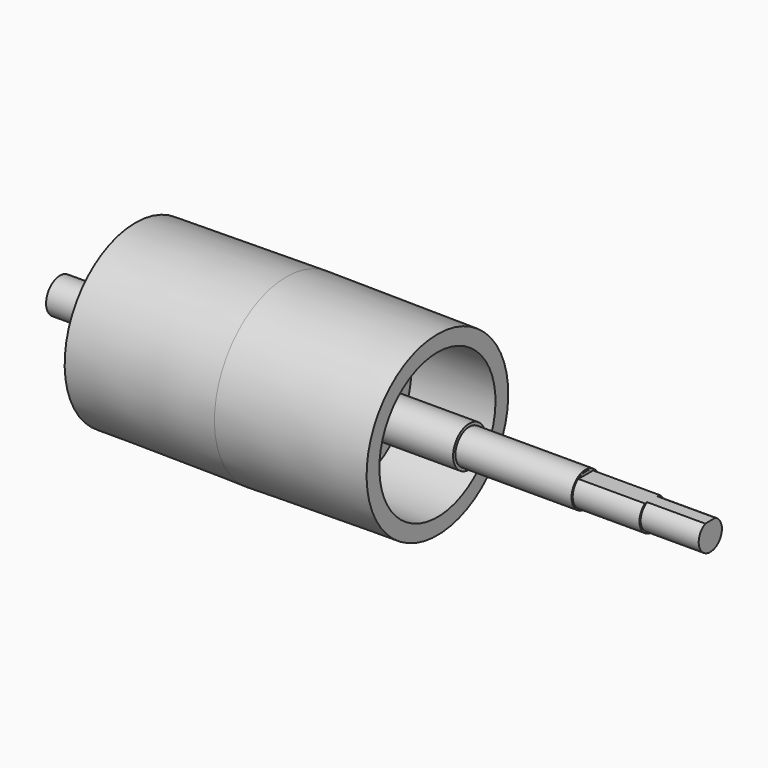
from build123d import *

# Parameters (mm, degrees)
F4_W     = 43.39286
F4_H     = 11.136995
F5_DEPTH = 1


with BuildPart() as f1:
    # F0 (on Front) → F1 (revolve)
    with BuildSketch(Plane.XZ):
        Polygon((-52.789021, 6), (-52.789021, 0), (171.210979, 0), (171.210979, 5), (151.210979, 5), (151.210979, 5.5), (128.210979, 5.5), (128.210979, 6), (88.210979, 6), (88.210979, 7), (48.210979, 7), (48.210979, 25), (77.210979, 25), (77.210979, 30.5), (25.210979, 31), (-26.789021, 30.5), (-26.789021, 25), (2.210979, 25), (2.210979, 7), (-37.789021, 7), (-37.789021, 6), align=None)
    revolve(axis=Axis((59.210979, 0, 0), (-1, 0, 0)))


with BuildPart() as f1_1:
    # F3: moved
    add(f1.part.moved(Location((-70, 0, 0))))

    # F4 (on offset) → F5 (cut)
    with BuildSketch(Plane.XY.offset(5.5)):
        with Locations((80.00974, 0.016809)):
            Rectangle(F4_W, F4_H)
    extrude(amount=-F5_DEPTH, mode=Mode.SUBTRACT)


solid = f1_1.part
